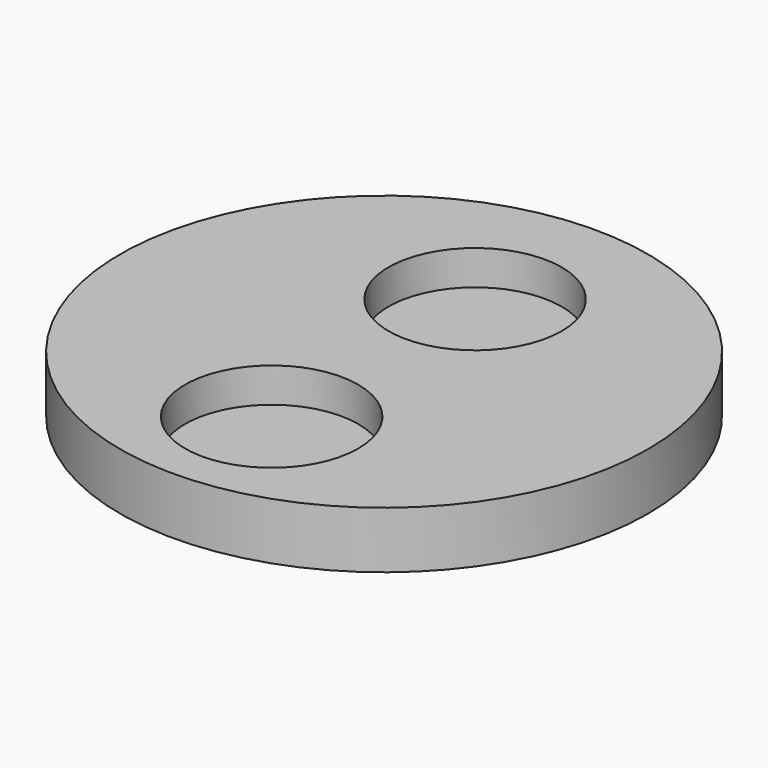
from build123d import *

# Parameters (mm, degrees)
F0_R     = 29.735
F1_DEPTH = 6.4
F2_R     = 9.75
F3_DEPTH = 3.9
F4_W     = 17
F4_H     = 14.5
F5_DEPTH = 2


with BuildPart() as f1:
    # F0 (on Top) → F1 (new body)
    with BuildSketch(Plane.XY):
        Circle(F0_R)
    extrude(amount=F1_DEPTH)

    # F2 (on face) → F3 (cut)
    with BuildSketch(Plane.XY.offset(6.4)):
        with Locations((0, 12.815)):
            Circle(F2_R)
        with Locations((0, -15.835)):
            Circle(F2_R)
    extrude(amount=-F3_DEPTH, mode=Mode.SUBTRACT)

    # F4 (on face) → F5 (cut)
    with BuildSketch(Plane(origin=(0, 0, 0), x_dir=(1, 0, 0), z_dir=(0, 0, -1))):
        Rectangle(F4_W, F4_H)
    extrude(amount=-F5_DEPTH, mode=Mode.SUBTRACT)


solid = f1.part
